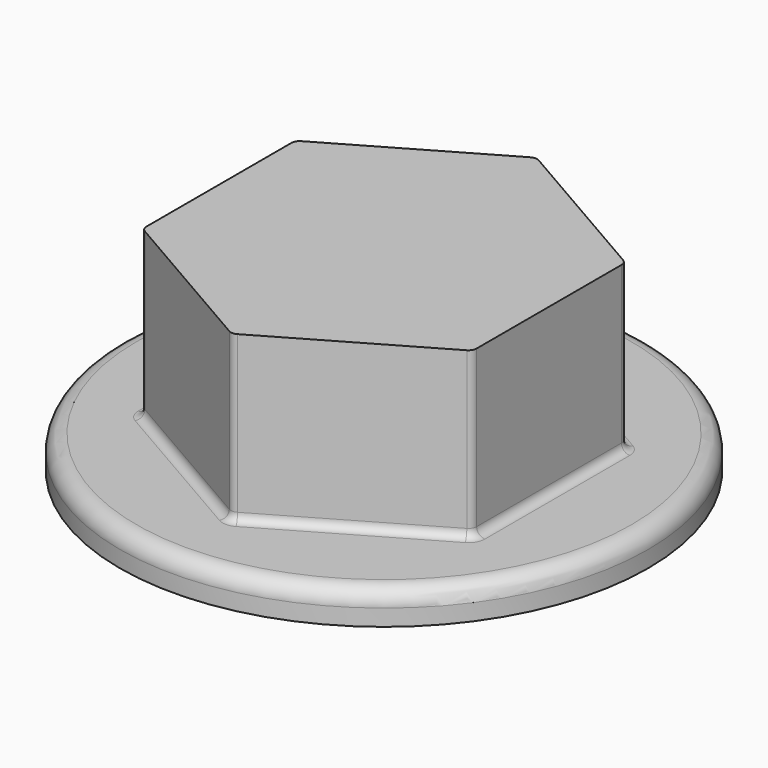
from build123d import *

# Parameters (mm, degrees)
F0_R     = 16
F1_DEPTH = 2
F2_R     = 1
F3_DEPTH = 12
F4_R     = 0.5


with BuildPart() as f1:
    # F0 (on Top) → F1 (new body)
    with BuildSketch(Plane.XY):
        Circle(F0_R)
        Polygon((10, 5.773503), (10, -5.773503), (0, -11.547005), (-10, -5.773503), (-10, 5.773503), (0, 11.547005), align=None, mode=Mode.SUBTRACT)
        Polygon((0, -11.547005), (10, -5.773503), (10, 5.773503), (0, 11.547005), (-10, 5.773503), (-10, -5.773503), align=None)
    extrude(amount=F1_DEPTH)

    # F2
    f2_edges = [f1.edges().sort_by_distance(p)[0] for p in [
        (-16, 0, 2),
    ]]
    fillet(f2_edges, radius=F2_R)

    # F0 (on Top) → F3 (join)
    with BuildSketch(Plane.XY):
        Polygon((0, -11.547005), (10, -5.773503), (10, 5.773503), (0, 11.547005), (-10, 5.773503), (-10, -5.773503), align=None)
    extrude(amount=F3_DEPTH)

    # F4
    f4_edges = [f1.edges().sort_by_distance(p)[0] for p in [
        (10, 0, 2),
        (5, -8.660254, 2),
        (10, -5.773503, 7),
        (10, 5.773503, 7),
        (5, 8.660254, 2),
        (0, 11.547005, 7),
        (-5, 8.660254, 2),
        (-10, 5.773503, 7),
        (-10, 0, 2),
        (-10, -5.773503, 7),
        (-5, -8.660254, 2),
        (0, -11.547005, 7),
    ]]
    fillet(f4_edges, radius=F4_R)


solid = f1.part
